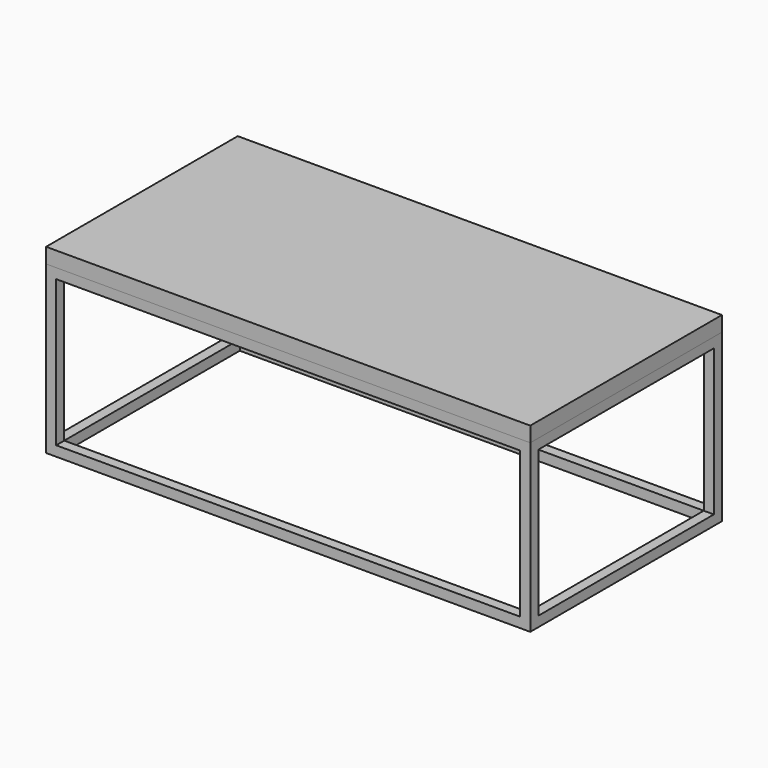
from build123d import *

# Parameters (mm, degrees)
F0_W      = 1219.2
F0_H      = 603.25
F1_DEPTH  = 38.1
F2_DEPTH  = 419.1
F3_W      = 1168.4
F3_H      = 368.3
F4_DEPTH  = 603.251
F5_W      = 552.45
F5_H      = 368.3
F6_DEPTH  = 1219.201
F7_W      = 1168.4
F7_H      = 552.45
F8_DEPTH  = 457.201
F9_W      = 25.4
F9_H      = 25.4
F10_DEPTH = 552.45


with BuildPart() as f1:
    # F0 (on Top) → F1 (new body)
    with BuildSketch(Plane.XY):
        Rectangle(F0_W, F0_H)
    extrude(amount=F1_DEPTH)


with BuildPart() as f2:
    # F2 (new): a face of the model
    f2_faces = [f1.part.faces().sort_by_distance(p)[0] for p in [
        (0, 0, 0),
    ]]
    extrude(f2_faces, amount=F2_DEPTH)

    # F3 (on face) → F4 (cut, through all)
    with BuildSketch(Plane.XZ.offset(301.625)):
        with Locations((0, -209.55)):
            Rectangle(F3_W, F3_H)
    extrude(amount=-F4_DEPTH, mode=Mode.SUBTRACT)

    # F5 (on face) → F6 (cut, through all)
    with BuildSketch(Plane(origin=(-609.6, 0, 0), x_dir=(0, -1, 0), z_dir=(-1, 0, 0))):
        with Locations((0, -209.55)):
            Rectangle(F5_W, F5_H)
    extrude(amount=-F6_DEPTH, mode=Mode.SUBTRACT)

    # F7 (on face) → F8 (cut, through all)
    with BuildSketch(Plane(origin=(0, 0, -419.1), x_dir=(1, 0, 0), z_dir=(0, 0, -1))):
        Rectangle(F7_W, F7_H)
    extrude(amount=-F8_DEPTH, mode=Mode.SUBTRACT)

    # F9 (on face) → F10 (join, through all)
    with BuildSketch(Plane(origin=(0, -276.225, 0), x_dir=(-1, 0, 0), z_dir=(0, 1, 0))):
        with Locations((-198.9666666667, -12.7)):
            Rectangle(F9_W, F9_H)
        with Locations((198.9666666667, -12.7)):
            Rectangle(F9_W, F9_H)
    extrude(amount=F10_DEPTH)


solid = Compound([f1.part, f2.part])
